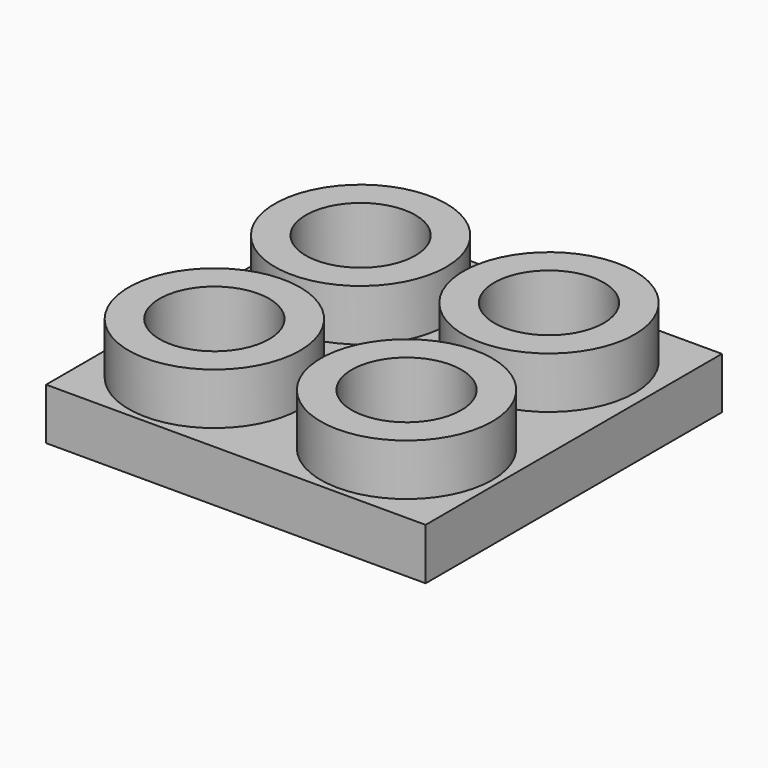
from build123d import *

# Parameters (mm, degrees)
F0_W     = 28.08589302
F0_H     = 27.4060983211
F1_DEPTH = 3.81
F2_R     = 6.3416120596
F3_DEPTH = 7.62
F4_T     = -2.286


with BuildPart() as f1:
    # F0 (on Top) → F1 (new body)
    with BuildSketch(Plane.XY):
        Rectangle(F0_W, F0_H)
    extrude(amount=F1_DEPTH)

    # F2 (on Top) → F3 (join)
    with BuildSketch(Plane.XY):
        with Locations((-6.9529586472, 6.5272971988)):
            Circle(F2_R)
        with Locations((6.8254987709, 6.7306994461)):
            Circle(F2_R)
        with Locations((7.2046923451, -6.9202962331)):
            Circle(F2_R)
        with Locations((-7.015094161, -6.9202962331)):
            Circle(F2_R)
    extrude(amount=F3_DEPTH)

    # F4
    f4_openings = [f1.faces().sort_by_distance(p)[0] for p in [
        (-6.952959, 6.527297, 7.62),
        (-7.015094, -6.920296, 7.62),
        (7.204692, -6.920296, 7.62),
        (6.825499, 6.730699, 7.62),
    ]]
    offset(amount=F4_T, openings=f4_openings, kind=Kind.INTERSECTION)


solid = f1.part
